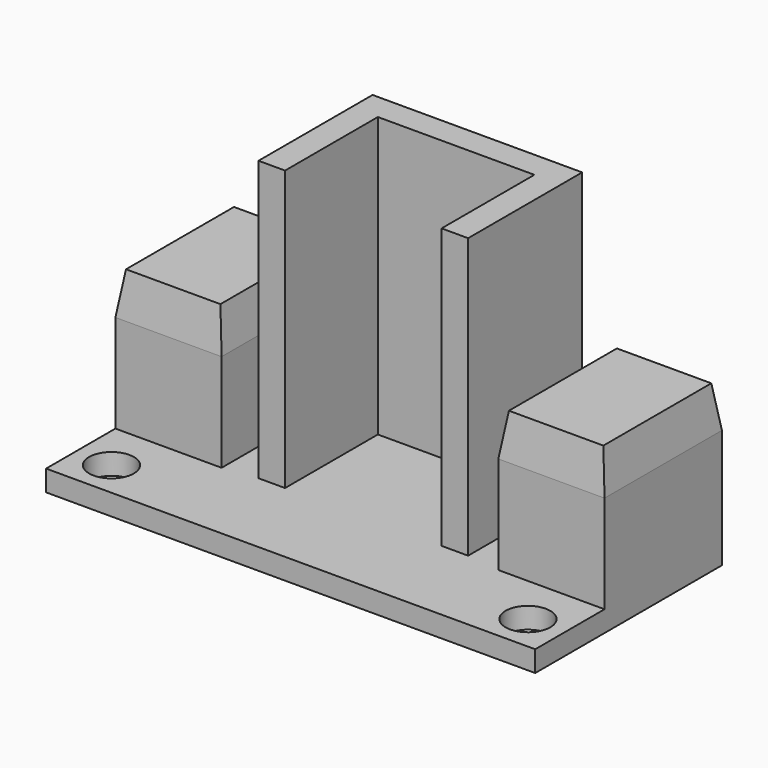
from build123d import *

# Parameters (mm, degrees)
SKETCH_W     = 35
SKETCH_H     = 16.7
SKETCH_R     = 1.6
PAD_DEPTH    = 1.5
SKETCH001_W  = 7.6
SKETCH001_H  = 10.5
PAD001_DEPTH = 7
SKETCH002_W  = 7.6
SKETCH002_H  = 10.5
PAD002_DEPTH = 3
PAD002_TAPER = 8
PAD003_DEPTH = 20


with BuildPart() as part:
    # Sketch → Pad (new body)
    with BuildSketch(Plane.XY):
        Rectangle(SKETCH_W, SKETCH_H)
        with Locations((-14.9, -5.75)):
            Circle(SKETCH_R, mode=Mode.SUBTRACT)
        with Locations((14.9, -5.75)):
            Circle(SKETCH_R, mode=Mode.SUBTRACT)
    extrude(amount=PAD_DEPTH)

    # Sketch001 (on Face8 of Pad) → Pad001 (join)
    with BuildSketch(Plane.XY.offset(1.5)):
        with Locations((-13.7, 3.1)):
            Rectangle(SKETCH001_W, SKETCH001_H)
        with Locations((13.7, 3.1)):
            Rectangle(SKETCH001_W, SKETCH001_H)
    extrude(amount=PAD001_DEPTH)

    # Sketch002 (on Face17 of Pad001) → Pad002 (join)
    with BuildSketch(Plane.XY.offset(8.5)):
        with Locations((-13.7, 3.1)):
            Rectangle(SKETCH002_W, SKETCH002_H)
        with Locations((13.7, 3.1)):
            Rectangle(SKETCH002_W, SKETCH002_H)
    extrude(amount=PAD002_DEPTH, taper=PAD002_TAPER)

    # Sketch003 (on Face5 of Pad002) → Pad003 (join)
    with BuildSketch(Plane.XY.offset(1.5)):
        Polygon((-7.5, 8.35), (-7.5, -1.85), (-5.6, -1.85), (-5.6, 6.45), (5.6, 6.45), (5.6, -1.85), (7.5, -1.85), (7.5, 8.35), align=None)
    extrude(amount=PAD003_DEPTH)


solid = part.part
